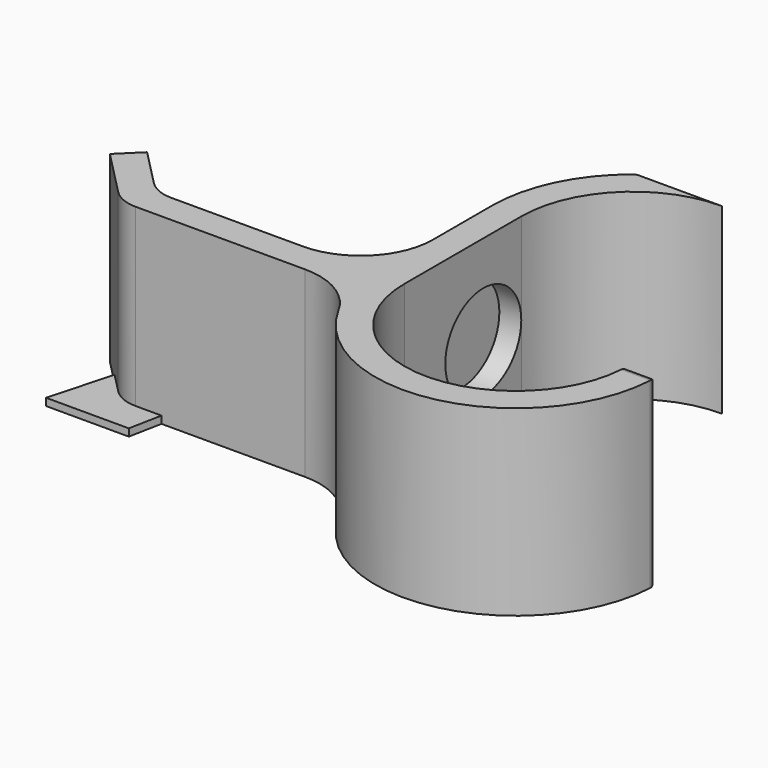
from build123d import *

# Parameters (mm, degrees)
F1_DEPTH = 25
F2_R     = 5
F3_R     = 9.898276
F4_R     = 1
F5_R     = 6.5
F6_DEPTH = 3
F8_DEPTH = 1


with BuildPart() as f1:
    # F0 (on Top) → F1 (new body)
    with BuildSketch(Plane.XY):
        with BuildLine():
            ThreePointArc((30.5, 0), (15.25, -15.25), (0, 0))
            Line((0, 0), (0, 20))
            ThreePointArc((0, 20), (4.466622, 30.783378), (15.25, 35.25))
            Line((15.25, 35.25), (3.50266, 35.25))
            ThreePointArc((3.50266, 35.25), (-2.022794, 28.497829), (-4, 20))
            Line((-4, 20), (-4, 0))
            Line((-4, 0), (-34, 0))
            Line((-34, 0), (-40.494669, 6.624704))
            Line((-40.494669, 6.624704), (-43.350991, 3.824449))
            Line((-43.350991, 3.824449), (-35.680126, -4))
            Line((-35.680126, -4), (-3.57983, -4))
            ThreePointArc((-3.57983, -4), (17.261004, -19.144669), (34.5, 0))
            Line((34.5, 0), (30.5, 0))
        make_face()
    extrude(amount=F1_DEPTH)

    # F2
    f2_edges = [f1.edges().sort_by_distance(p)[0] for p in [
        (-35.680126, -4, 12.5),
        (-34, 0, 12.5),
    ]]
    fillet(f2_edges, radius=F2_R)

    # F3
    f3_edges = [f1.edges().sort_by_distance(p)[0] for p in [
        (-3.57983, -4, 12.5),
        (-4, 0, 12.5),
    ]]
    fillet(f3_edges, radius=F3_R)

    # F4
    f4_edges = [f1.edges().sort_by_distance(p)[0] for p in [
        (34.5, 0, 12.5),
        (32.5, 0, 25),
        (32.5, 0, 0),
        (3.50266, 35.25, 12.5),
    ]]
    fillet(f4_edges, radius=F4_R)

    # F5 (on face) → F6 (cut)
    with BuildSketch(Plane.YZ):
        with Locations((13.5, 12.5)):
            Circle(F5_R)
    extrude(amount=-F6_DEPTH, mode=Mode.SUBTRACT)

    # F7 (on face) → F8 (join)
    with BuildSketch(Plane(origin=(0, 0, 0), x_dir=(1, 0, 0), z_dir=(0, 0, -1))):
        Polygon((-42.2277, 8.48738), (-39.850672, -0.254048), (-33.792032, -6.193764), (-28.426796, -4.05625), (-30.911811, 8.48738), align=None)
    extrude(amount=-F8_DEPTH)


solid = f1.part
